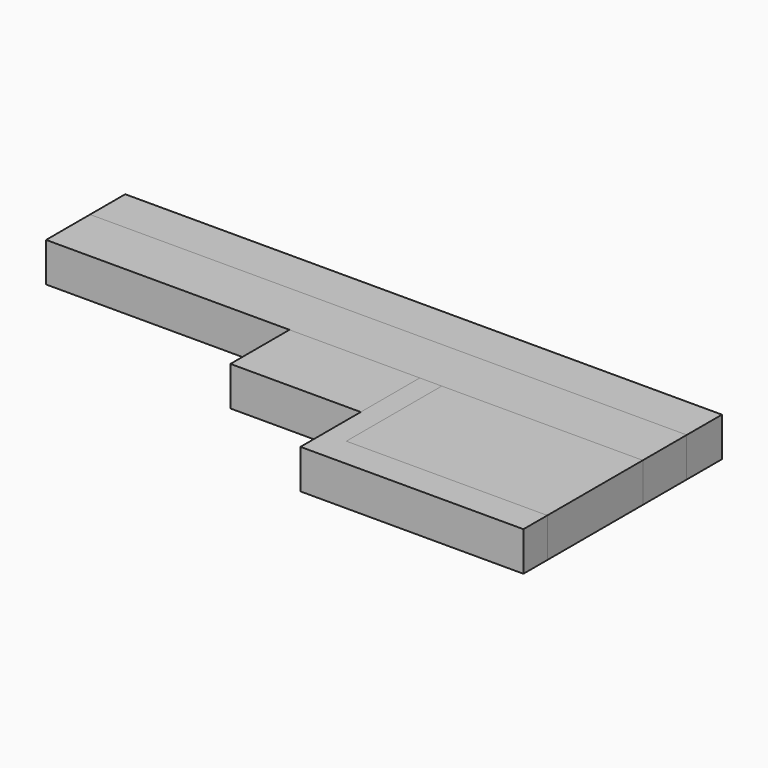
from build123d import *

# Parameters (mm, degrees)
F0_W     = 225
F0_H     = 110
F1_DEPTH = 25
F2_W     = 142
F2_H     = 158
F3_DEPTH = 25
F4_W     = 128
F4_H     = 139
F5_DEPTH = 25
F6_W     = 380
F6_H     = 63
F7_DEPTH = 25
F8_W     = 380
F8_H     = 28
F9_DEPTH = 25


with BuildPart() as f1:
    # F0 (on Top) → F1 (new body)
    with BuildSketch(Plane.XY):
        with Locations((-112.5, -55)):
            Rectangle(F0_W, F0_H)
    extrude(amount=F1_DEPTH)


with BuildPart() as f3:
    # F2 (on Top) → F3 (new body)
    with BuildSketch(Plane.XY):
        with Locations((-71, -79)):
            Rectangle(F2_W, F2_H)
    extrude(amount=F3_DEPTH)


with BuildPart() as f5:
    # F4 (on Top) → F5 (new body)
    with BuildSketch(Plane.XY):
        with Locations((-64, -69.5)):
            Rectangle(F4_W, F4_H)
    extrude(amount=F5_DEPTH)


with BuildPart() as f7:
    # F6 (on Top) → F7 (new body)
    with BuildSketch(Plane.XY):
        with Locations((-190, -31.5)):
            Rectangle(F6_W, F6_H)
    extrude(amount=F7_DEPTH)


with BuildPart() as f9:
    # F8 (on Top) → F9 (new body)
    with BuildSketch(Plane.XY):
        with Locations((-190, -14)):
            Rectangle(F8_W, F8_H)
    extrude(amount=F9_DEPTH)


solid = Compound([f1.part, f3.part, f5.part, f7.part, f9.part])
